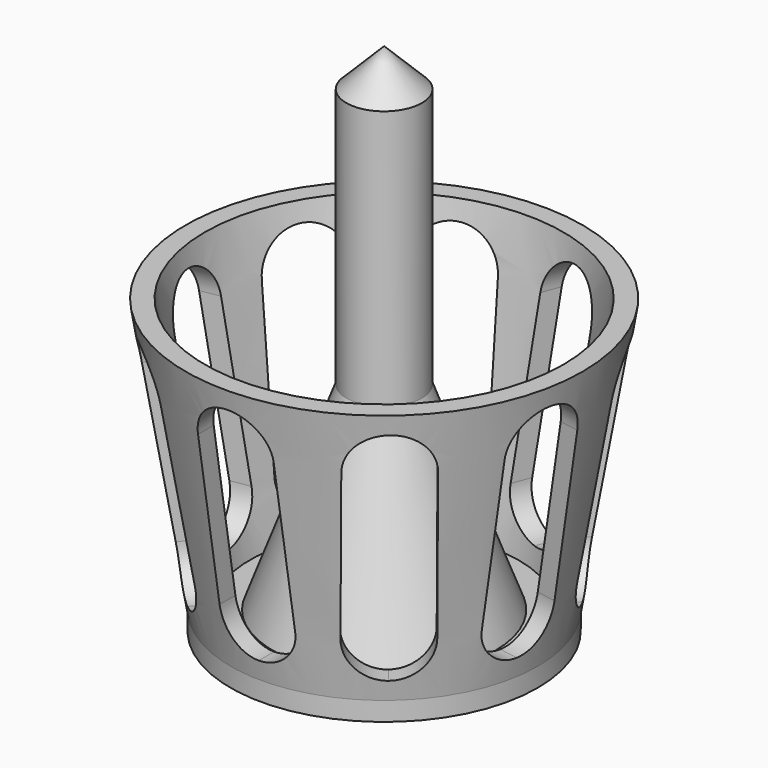
from build123d import *

# Parameters (mm, degrees)
F0_R      = 6.5
F1_DEPTH  = 0.8
F9_DEPTH  = 10
F10_COUNT = 9


with BuildPart() as f1:
    # F0 (on Top) → F1 (new body)
    with BuildSketch(Plane.XY):
        Circle(F0_R)
    extrude(amount=F1_DEPTH)

    # F2 (on Front) → F3 (revolve)
    with BuildSketch(Plane.XZ):
        Polygon((0, 21.8), (0, 0.8), (4.7, 0.8), (1.6, 9.2), (1.6, 20.2), align=None)
    revolve(axis=Axis((0, 0, 9.2736282386), (0, 0, -1)))

    # F4 (on Front) → F5 (revolve)
    with BuildSketch(Plane.XZ):
        Polygon((5.6893397532, 0.8), (6.5, 0.8), (8.4, 12.4), (7.5893397532, 12.4), align=None)
    revolve(axis=Axis((0, 0, 7.4751595967), (0, 0, -1)))


with BuildPart() as f9:
    # F8 (on offset) → F9 (new body)
    with BuildSketch(Plane.XZ.offset(5)):
        with BuildLine():
            ThreePointArc((0, 11.6), (-1.1313708499, 11.1313708499), (-1.6, 10))
            Line((-1.6, 10), (-1.6, 3.2))
            ThreePointArc((-1.6, 3.2), (-1.1313708499, 2.0686291501), (0, 1.6))
            ThreePointArc((0, 1.6), (1.1313708499, 2.0686291501), (1.6, 3.2))
            Line((1.6, 3.2), (1.6, 10))
            ThreePointArc((1.6, 10), (1.1313708499, 11.1313708499), (0, 11.6))
        make_face()
    extrude(amount=F9_DEPTH)


with BuildPart() as f10_1:
    # F10: instance of F9
    add(f9.part.rotate(Axis((0, 0, 9.2), (0, 0, 1)), 1 * 360 / F10_COUNT))


with BuildPart() as f10_2:
    # F10: instance of F9
    add(f9.part.rotate(Axis((0, 0, 9.2), (0, 0, 1)), 2 * 360 / F10_COUNT))


with BuildPart() as f10_3:
    # F10: instance of F9
    add(f9.part.rotate(Axis((0, 0, 9.2), (0, 0, 1)), 3 * 360 / F10_COUNT))


with BuildPart() as f10_4:
    # F10: instance of F9
    add(f9.part.rotate(Axis((0, 0, 9.2), (0, 0, 1)), 4 * 360 / F10_COUNT))


with BuildPart() as f10_5:
    # F10: instance of F9
    add(f9.part.rotate(Axis((0, 0, 9.2), (0, 0, 1)), 5 * 360 / F10_COUNT))


with BuildPart() as f10_6:
    # F10: instance of F9
    add(f9.part.rotate(Axis((0, 0, 9.2), (0, 0, 1)), 6 * 360 / F10_COUNT))


with BuildPart() as f10_7:
    # F10: instance of F9
    add(f9.part.rotate(Axis((0, 0, 9.2), (0, 0, 1)), 7 * 360 / F10_COUNT))


with BuildPart() as f10_8:
    # F10: instance of F9
    add(f9.part.rotate(Axis((0, 0, 9.2), (0, 0, 1)), 8 * 360 / F10_COUNT))


with BuildPart() as f1_1:
    add(f1.part)

    # F11: cut F9, F10_1, F10_2, F10_3, F10_4, F10_5, F10_6, F10_7, F10_8
    add(f9.part, mode=Mode.SUBTRACT)
    add(f10_1.part, mode=Mode.SUBTRACT)
    add(f10_2.part, mode=Mode.SUBTRACT)
    add(f10_3.part, mode=Mode.SUBTRACT)
    add(f10_4.part, mode=Mode.SUBTRACT)
    add(f10_5.part, mode=Mode.SUBTRACT)
    add(f10_6.part, mode=Mode.SUBTRACT)
    add(f10_7.part, mode=Mode.SUBTRACT)
    add(f10_8.part, mode=Mode.SUBTRACT)


solid = f1_1.part
